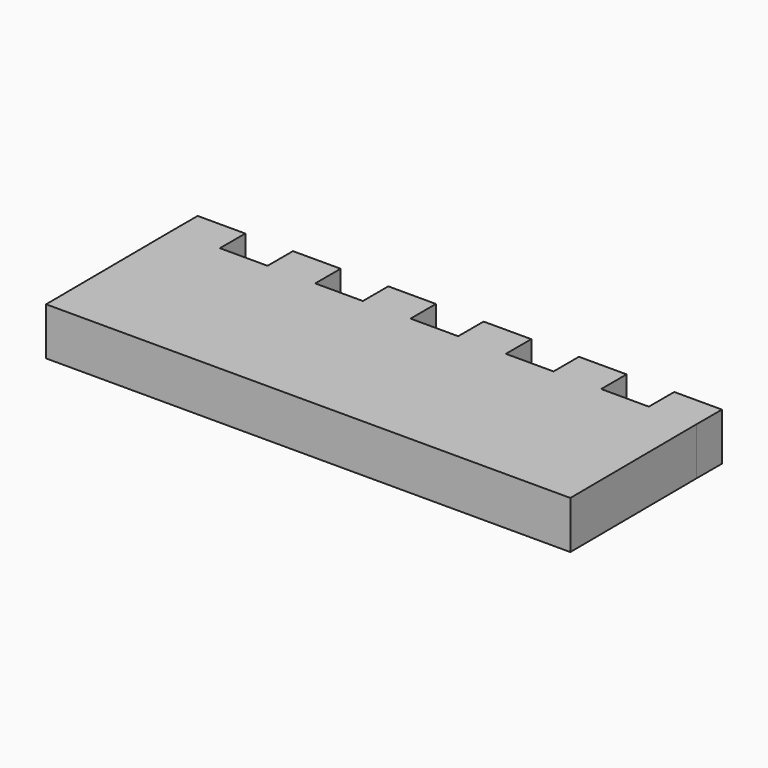
from build123d import *

# Parameters (mm, degrees)
F1_DEPTH = 30


with BuildPart() as f1:
    # F0 (on Top) → F1 (new body)
    with BuildSketch(Plane.XY):
        Polygon((0, 20), (0, 0), (0.596929, -99.998218), (330.596929, -99.998218), (330, 0), (330, 20), (300, 20), (300, 0), (270, 0), (270, 20), (240, 20), (240, 0), (222.480072, 0), (210, 0), (210, 20), (180, 20), (180, 0), (150, 0), (150, 20), (120, 20), (120, 0), (90, 0), (90, 20), (60, 20), (60, 0), (30, 0), (30, 20), align=None)
    extrude(amount=F1_DEPTH)


solid = f1.part
